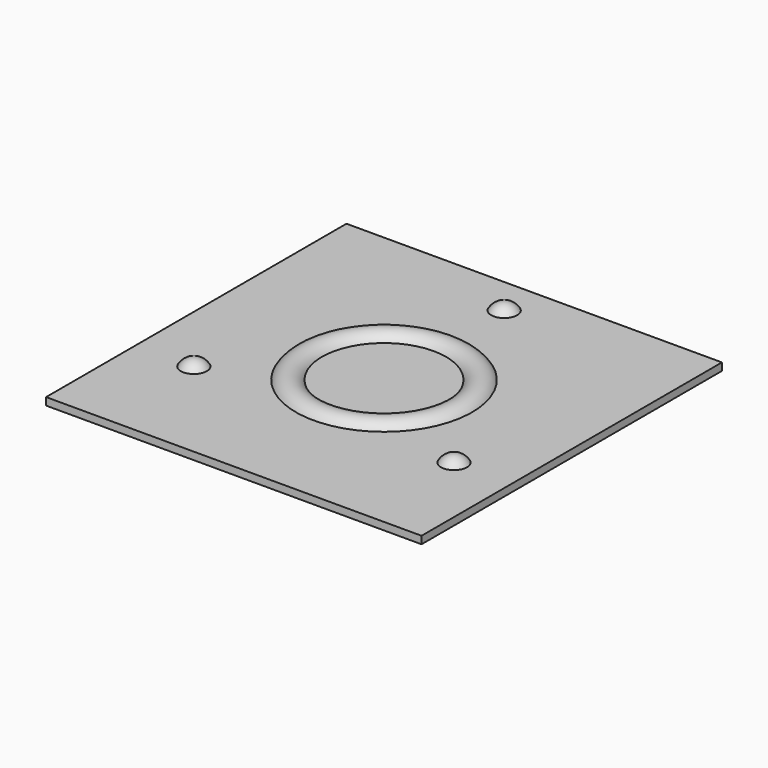
from build123d import *

# Parameters (mm, degrees)
F0_W     = 100.0000410745
F0_H     = 100
F1_DEPTH = 2
F6_COUNT = 3


with BuildPart() as f1:
    # F0 (on Top) → F1 (new body)
    with BuildSketch(Plane.XY):
        with Locations((2.05373e-05, 0)):
            Rectangle(F0_W, F0_H)
    extrude(amount=F1_DEPTH)

    # F2 (on Right) → F3 (revolve)
    with BuildSketch(Plane.YZ):
        with BuildLine():
            Line((16, 0), (24, 0))
            ThreePointArc((24, 0), (20, 4), (16, 0))
        make_face()
    revolve(axis=Axis((0, 0, 3.7722848356), (0, 0, -1)))

    # F4 (on Right) → F5 (revolve)
    with BuildSketch(Plane.YZ):
        with BuildLine():
            Line((40, 0), (44, 0))
            ThreePointArc((44, 0), (42.8284271247, 2.8284271247), (40, 4))
            Line((40, 4), (40, 0))
        make_face()
    f5 = revolve(axis=Axis((0, 40, 1.4672121033), (0, 0, -1)))

    # F6: F5 ×3 about axis
    f6_axis = Axis((0, 0, 3.7722848356), (0, 0, -1))
    for i in range(1, F6_COUNT):
        add(f5.rotate(f6_axis, i * 360 / F6_COUNT))


solid = f1.part
